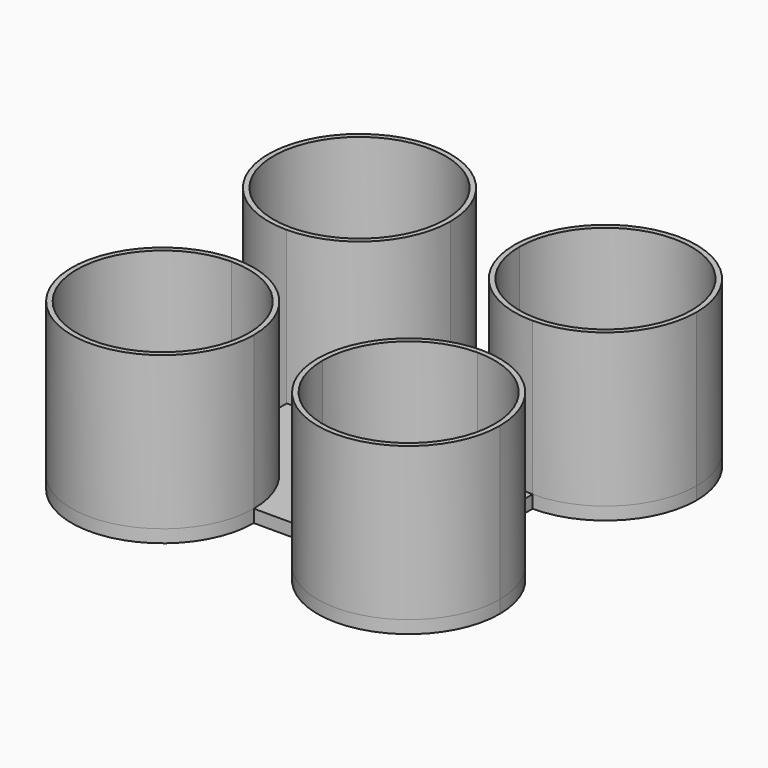
from build123d import *

# Parameters (mm, degrees)
F1_DEPTH = 1
F2_DEPTH = 12


with BuildPart() as f1:
    # F0 (on Top) → F1 (new body)
    with BuildSketch(Plane.XY):
        with BuildLine():
            ThreePointArc((0, 7.15), (5.0558134855, 5.0558134855), (7.15, 0))
            Line((7.15, 0), (12.154, 0))
            ThreePointArc((12.154, 0), (14.2481865145, 5.0558134855), (19.304, 7.15))
            Line((19.304, 7.15), (19.304, 12.154))
            ThreePointArc((19.304, 12.154), (14.2481865145, 14.2481865145), (12.154, 19.304))
            Line((12.154, 19.304), (7.15, 19.304))
            ThreePointArc((7.15, 19.304), (5.0558134855, 14.2481865145), (0, 12.154))
            Line((0, 12.154), (0, 7.15))
        make_face()
        with BuildLine():
            Line((0, 12.554), (0, 12.154))
            ThreePointArc((0, 12.154), (5.0558134855, 14.2481865145), (7.15, 19.304))
            Line((7.15, 19.304), (6.75, 19.304))
            ThreePointArc((6.75, 19.304), (4.772970773, 14.531029227), (0, 12.554))
        make_face()
        with BuildLine():
            ThreePointArc((19.304, 7.15), (14.2481865145, 5.0558134855), (12.154, 0))
            Line((12.154, 0), (12.554, 0))
            ThreePointArc((12.554, 0), (14.531029227, 4.772970773), (19.304, 6.75))
            Line((19.304, 6.75), (19.304, 7.15))
        make_face()
        with BuildLine():
            Line((0, 0), (6.75, 0))
            ThreePointArc((6.75, 0), (4.772970773, 4.772970773), (0, 6.75))
            Line((0, 6.75), (0, 0))
        make_face()
        with BuildLine():
            Line((7.15, 0), (6.75, 0))
            ThreePointArc((6.75, 0), (-4.772970773, -4.772970773), (0, 6.75))
            Line((0, 6.75), (0, 7.15))
            ThreePointArc((0, 7.15), (-5.0558134855, -5.0558134855), (7.15, 0))
        make_face()
        with BuildLine():
            ThreePointArc((0, 6.75), (-4.772970773, -4.772970773), (6.75, 0))
            Line((6.75, 0), (0, 0))
            Line((0, 0), (0, 6.75))
        make_face()
        with BuildLine():
            ThreePointArc((7.15, 19.304), (-5.0558134855, 24.3598134855), (0, 12.154))
            Line((0, 12.154), (0, 12.554))
            ThreePointArc((0, 12.554), (-4.772970773, 24.076970773), (6.75, 19.304))
            Line((6.75, 19.304), (7.15, 19.304))
        make_face()
        with BuildLine():
            ThreePointArc((6.75, 19.304), (-4.772970773, 24.076970773), (0, 12.554))
            Line((0, 12.554), (0, 19.304))
            Line((0, 19.304), (6.75, 19.304))
        make_face()
        with BuildLine():
            Line((0, 19.304), (0, 12.554))
            ThreePointArc((0, 12.554), (4.772970773, 14.531029227), (6.75, 19.304))
            Line((6.75, 19.304), (0, 19.304))
        make_face()
        with BuildLine():
            ThreePointArc((12.154, 19.304), (14.2481865145, 14.2481865145), (19.304, 12.154))
            Line((19.304, 12.154), (19.304, 12.554))
            ThreePointArc((19.304, 12.554), (14.531029227, 14.531029227), (12.554, 19.304))
            Line((12.554, 19.304), (12.154, 19.304))
        make_face()
        with BuildLine():
            Line((12.554, 0), (12.154, 0))
            ThreePointArc((12.154, 0), (19.304, -7.15), (26.454, 0))
            ThreePointArc((26.454, 0), (24.3598134855, 5.0558134855), (19.304, 7.15))
            Line((19.304, 7.15), (19.304, 6.75))
            ThreePointArc((19.304, 6.75), (24.076970773, 4.772970773), (26.054, 0))
            ThreePointArc((26.054, 0), (19.304, -6.75), (12.554, 0))
        make_face()
        with BuildLine():
            ThreePointArc((19.304, 6.75), (14.531029227, 4.772970773), (12.554, 0))
            Line((12.554, 0), (19.304, 0))
            Line((19.304, 0), (19.304, 6.75))
        make_face()
        with BuildLine():
            Line((19.304, 0), (12.554, 0))
            ThreePointArc((12.554, 0), (19.304, -6.75), (26.054, 0))
            ThreePointArc((26.054, 0), (24.076970773, 4.772970773), (19.304, 6.75))
            Line((19.304, 6.75), (19.304, 0))
        make_face()
        with BuildLine():
            Line((19.304, 12.554), (19.304, 12.154))
            ThreePointArc((19.304, 12.154), (24.3598134855, 14.2481865145), (26.454, 19.304))
            ThreePointArc((26.454, 19.304), (19.304, 26.454), (12.154, 19.304))
            Line((12.154, 19.304), (12.554, 19.304))
            ThreePointArc((12.554, 19.304), (19.304, 26.054), (26.054, 19.304))
            ThreePointArc((26.054, 19.304), (24.076970773, 14.531029227), (19.304, 12.554))
        make_face()
        with BuildLine():
            ThreePointArc((12.554, 19.304), (14.531029227, 14.531029227), (19.304, 12.554))
            Line((19.304, 12.554), (19.304, 19.304))
            Line((19.304, 19.304), (12.554, 19.304))
        make_face()
        with BuildLine():
            Line((19.304, 19.304), (19.304, 12.554))
            ThreePointArc((19.304, 12.554), (24.076970773, 14.531029227), (26.054, 19.304))
            ThreePointArc((26.054, 19.304), (19.304, 26.054), (12.554, 19.304))
            Line((12.554, 19.304), (19.304, 19.304))
        make_face()
        with BuildLine():
            ThreePointArc((0, 6.75), (4.772970773, 4.772970773), (6.75, 0))
            Line((6.75, 0), (7.15, 0))
            ThreePointArc((7.15, 0), (5.0558134855, 5.0558134855), (0, 7.15))
            Line((0, 7.15), (0, 6.75))
        make_face()
    extrude(amount=-F1_DEPTH)

    # F0 (on Top) → F2 (join)
    with BuildSketch(Plane.XY):
        with BuildLine():
            ThreePointArc((7.15, 19.304), (-5.0558134855, 24.3598134855), (0, 12.154))
            Line((0, 12.154), (0, 12.554))
            ThreePointArc((0, 12.554), (-4.772970773, 24.076970773), (6.75, 19.304))
            Line((6.75, 19.304), (7.15, 19.304))
        make_face()
        with BuildLine():
            Line((0, 12.554), (0, 12.154))
            ThreePointArc((0, 12.154), (5.0558134855, 14.2481865145), (7.15, 19.304))
            Line((7.15, 19.304), (6.75, 19.304))
            ThreePointArc((6.75, 19.304), (4.772970773, 14.531029227), (0, 12.554))
        make_face()
        with BuildLine():
            Line((7.15, 0), (6.75, 0))
            ThreePointArc((6.75, 0), (-4.772970773, -4.772970773), (0, 6.75))
            Line((0, 6.75), (0, 7.15))
            ThreePointArc((0, 7.15), (-5.0558134855, -5.0558134855), (7.15, 0))
        make_face()
        with BuildLine():
            ThreePointArc((0, 6.75), (4.772970773, 4.772970773), (6.75, 0))
            Line((6.75, 0), (7.15, 0))
            ThreePointArc((7.15, 0), (5.0558134855, 5.0558134855), (0, 7.15))
            Line((0, 7.15), (0, 6.75))
        make_face()
        with BuildLine():
            ThreePointArc((19.304, 7.15), (14.2481865145, 5.0558134855), (12.154, 0))
            Line((12.154, 0), (12.554, 0))
            ThreePointArc((12.554, 0), (14.531029227, 4.772970773), (19.304, 6.75))
            Line((19.304, 6.75), (19.304, 7.15))
        make_face()
        with BuildLine():
            Line((12.554, 0), (12.154, 0))
            ThreePointArc((12.154, 0), (19.304, -7.15), (26.454, 0))
            ThreePointArc((26.454, 0), (24.3598134855, 5.0558134855), (19.304, 7.15))
            Line((19.304, 7.15), (19.304, 6.75))
            ThreePointArc((19.304, 6.75), (24.076970773, 4.772970773), (26.054, 0))
            ThreePointArc((26.054, 0), (19.304, -6.75), (12.554, 0))
        make_face()
        with BuildLine():
            ThreePointArc((12.154, 19.304), (14.2481865145, 14.2481865145), (19.304, 12.154))
            Line((19.304, 12.154), (19.304, 12.554))
            ThreePointArc((19.304, 12.554), (14.531029227, 14.531029227), (12.554, 19.304))
            Line((12.554, 19.304), (12.154, 19.304))
        make_face()
        with BuildLine():
            Line((19.304, 12.554), (19.304, 12.154))
            ThreePointArc((19.304, 12.154), (24.3598134855, 14.2481865145), (26.454, 19.304))
            ThreePointArc((26.454, 19.304), (19.304, 26.454), (12.154, 19.304))
            Line((12.154, 19.304), (12.554, 19.304))
            ThreePointArc((12.554, 19.304), (19.304, 26.054), (26.054, 19.304))
            ThreePointArc((26.054, 19.304), (24.076970773, 14.531029227), (19.304, 12.554))
        make_face()
    extrude(amount=F2_DEPTH)


solid = f1.part
